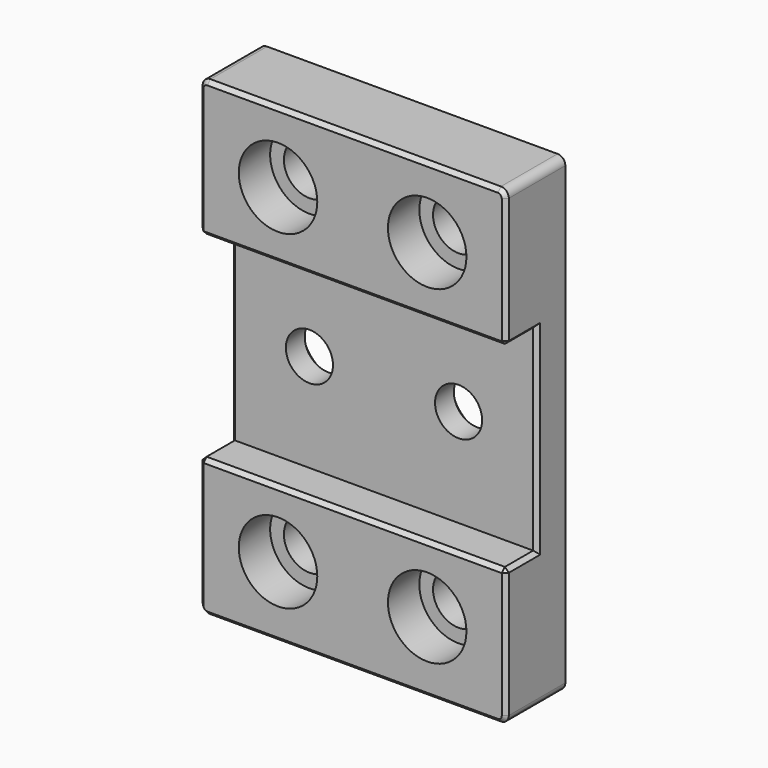
from build123d import *

# Parameters (mm, degrees)
F1_DEPTH       = 39
F5_D           = 6
F5_CSINK_D     = 10
F5_CSINK_ANGLE = 90
F6_D           = 6.5
F6_CBORE_D     = 10
F6_CBORE_DEPTH = 5
F7_R           = 1
F8_SIZE        = 0.5


with BuildPart() as f1:
    # F0 (on Right) → F1 (new body)
    with BuildSketch(Plane.YZ):
        Polygon((-10, 0), (0, 0), (0, 60), (-10, 60), (-10, 42.5), (-5, 42.5), (-5, 17.5), (-10, 17.5), align=None)
    extrude(amount=F1_DEPTH)

    # F5 (through all)
    with Locations(Plane(origin=(0, 0, 0), x_dir=(-1, 0, 0), z_dir=(0, 1, 0))):
        with Locations((-29, 30), (-10, 30)):
            CounterSinkHole(F5_D / 2, F5_CSINK_D / 2, counter_sink_angle=F5_CSINK_ANGLE)

    # F6 (through all)
    with Locations(Plane.XZ.offset(10)):
        with Locations((10, 51), (29, 51), (10, 9), (29, 9)):
            CounterBoreHole(F6_D / 2, F6_CBORE_D / 2, F6_CBORE_DEPTH)

    # F7
    f7_edges = [f1.edges().sort_by_distance(p)[0] for p in [
        (39, -5, 60),
        (39, -5, 0),
        (0, -5, 60),
        (0, -5, 0),
    ]]
    fillet(f7_edges, radius=F7_R)

    # F8
    f8_edges = [f1.edges().sort_by_distance(p)[0] for p in [
        (19.5, -10, 42.5),
        (19.5, -10, 17.5),
        (39, -7.5, 42.5),
        (39, -5, 30),
        (39, -7.5, 17.5),
        (39, -10, 50.75),
        (39, -10, 9.25),
        (0, -7.5, 42.5),
        (0, -7.5, 17.5),
        (0, -10, 50.75),
        (0, 0, 30),
        (0, -5, 30),
    ]]
    chamfer(f8_edges, length=F8_SIZE)


solid = f1.part
